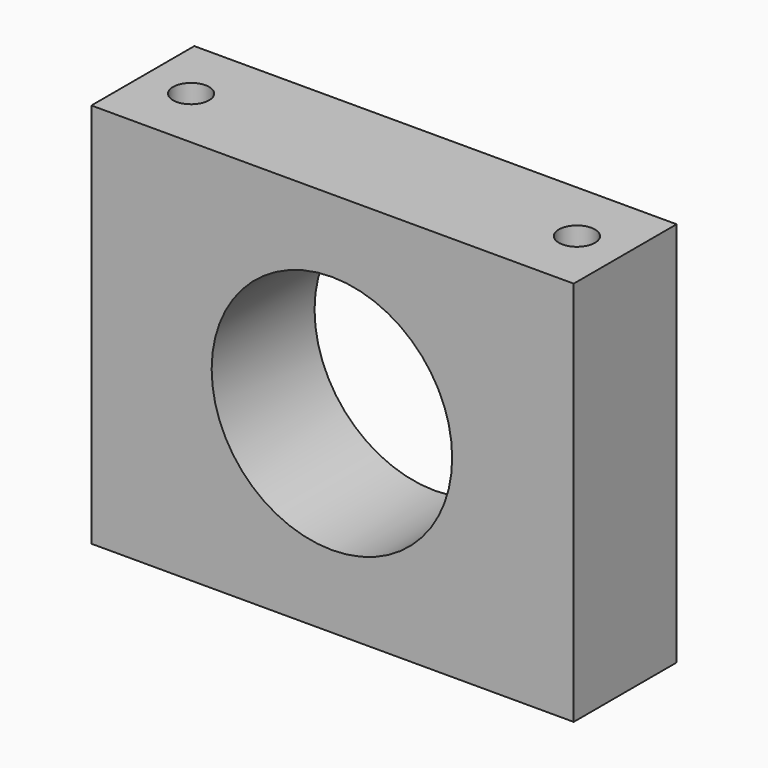
from build123d import *

# Parameters (mm, degrees)
F0_R     = 23.749
F1_DEPTH = 25.4
F2_R     = 3.5687
F3_DEPTH = 76.2


with BuildPart() as f1:
    # F0 (on Front) → F1 (new body)
    with BuildSketch(Plane.XZ):
        Polygon((-48.573706, 76.2), (-48.573706, 0), (46.676294, 0), (46.676294, 76.2), (-1.075706, 76.2), align=None)
        with Locations((-1.075706, 38.1)):
            Circle(F0_R, mode=Mode.SUBTRACT)
    extrude(amount=F1_DEPTH)

    # F2 (on face) → F3 (cut)
    with BuildSketch(Plane.XY.offset(76.2)):
        with Locations((-39.048706, -12.7)):
            Circle(F2_R)
        with Locations((37.151294, -12.7)):
            Circle(F2_R)
    extrude(amount=-F3_DEPTH, mode=Mode.SUBTRACT)


solid = f1.part
